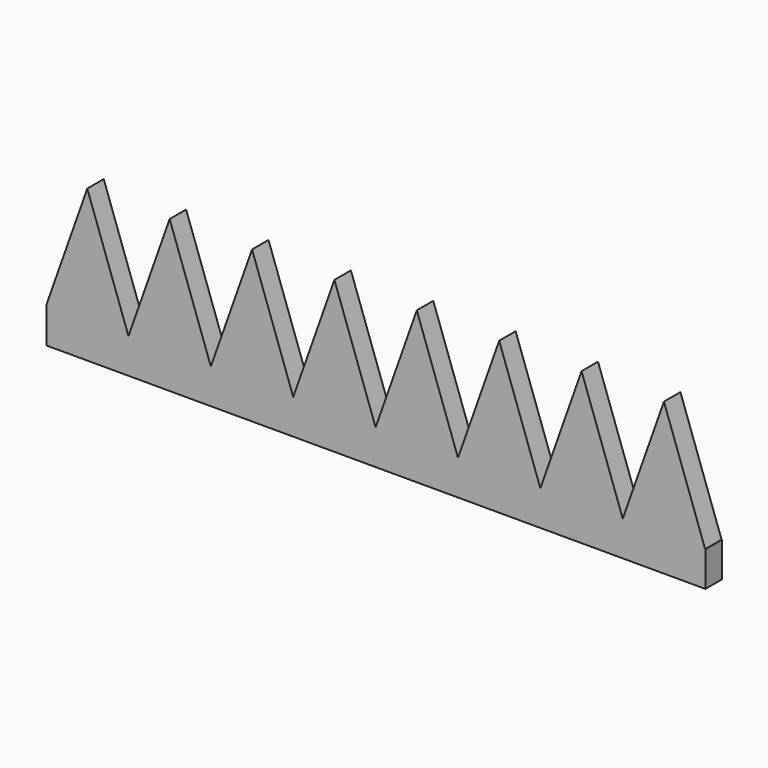
from build123d import *

# Parameters (mm, degrees)
F1_DEPTH = 6.35


with BuildPart() as f1:
    # F0 (on Front) → F1 (new body)
    with BuildSketch(Plane.XZ):
        Polygon((-101.698373, 5.38623), (-101.6, 5.38623), (-76.298373, 5.38623), (-88.998373, 41.307255), align=None)
        Polygon((-76.298373, 5.38623), (-101.6, 5.38623), (-101.6, -5.38623), (101.6, -5.38623), (101.6, 5.38623), (101.501627, 5.38623), (76.101627, 5.38623), (50.701627, 5.38623), (25.301627, 5.38623), (-0.098373, 5.38623), (-25.498373, 5.38623), (-50.898373, 5.38623), align=None)
        Polygon((-63.598373, 41.307255), (-76.298373, 5.38623), (-50.898373, 5.38623), align=None)
        Polygon((-38.198373, 41.307255), (-50.898373, 5.38623), (-25.498373, 5.38623), align=None)
        Polygon((-12.798373, 41.307255), (-25.498373, 5.38623), (-0.098373, 5.38623), align=None)
        Polygon((12.601627, 41.307255), (-0.098373, 5.38623), (25.301627, 5.38623), align=None)
        Polygon((76.101627, 5.38623), (101.501627, 5.38623), (88.801627, 41.307255), align=None)
        Polygon((38.001627, 41.307255), (25.301627, 5.38623), (50.701627, 5.38623), align=None)
        Polygon((50.701627, 5.38623), (76.101627, 5.38623), (63.401627, 41.307255), align=None)
    extrude(amount=F1_DEPTH)


solid = f1.part
